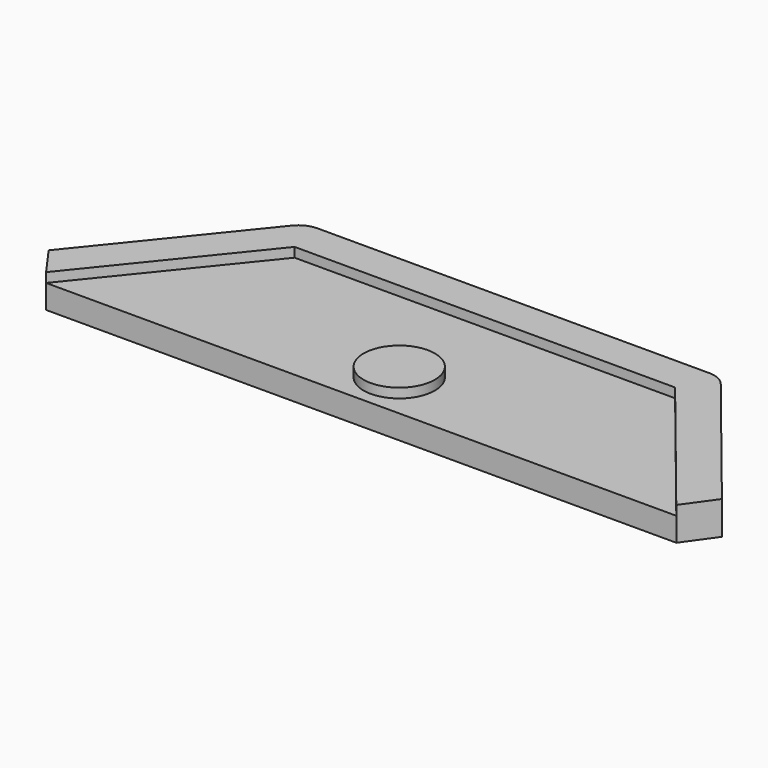
from build123d import *

# Parameters (mm, degrees)
F0_R     = 3
F1_DEPTH = 0.8
F3_DEPTH = 2


with BuildPart() as f1:
    # F0 (on Top) → F1 (new body)
    with BuildSketch(Plane.XY):
        with BuildLine():
            Line((-2, 10.345446), (0, 10.345446))
            Line((0, 10.345446), (2, 10.345446))
            Line((2, 10.345446), (5.554248, 10.345446))
            Line((5.554248, 10.345446), (16, 10.345446))
            Line((16, 10.345446), (26.5, -2.654554))
            Line((26.5, -2.654554), (28.31125, -0.122547))
            Line((28.31125, -0.122547), (18.033634, 12.60212))
            ThreePointArc((18.033634, 12.60212), (17.339915, 13.150071), (16.477752, 13.345446))
            Line((16.477752, 13.345446), (0, 13.345446))
            Line((0, 13.345446), (-16.477752, 13.345446))
            ThreePointArc((-16.477752, 13.345446), (-17.339915, 13.150071), (-18.033634, 12.60212))
            Line((-18.033634, 12.60212), (-28.31125, -0.122547))
            Line((-28.31125, -0.122547), (-26.5, -2.654554))
            Line((-26.5, -2.654554), (-16, 10.345446))
            Line((-16, 10.345446), (-5.554248, 10.345446))
            Line((-5.554248, 10.345446), (-2, 10.345446))
        make_face()
        with Locations((0, 1.345446)):
            Circle(F0_R)
    extrude(amount=F1_DEPTH)

    # F2 (on face) → F3 (join)
    with BuildSketch(Plane(origin=(0, 0, 0), x_dir=(1, 0, 0), z_dir=(0, 0, -1))):
        with BuildLine():
            Line((-26.5, 2.654554), (-28.31125, 0.122547))
            Line((-28.31125, 0.122547), (-18.033634, -12.60212))
            ThreePointArc((-18.033634, -12.60212), (-17.339915, -13.150071), (-16.477752, -13.345446))
            Line((-16.477752, -13.345446), (16.477752, -13.345446))
            ThreePointArc((16.477752, -13.345446), (17.339915, -13.150071), (18.033634, -12.60212))
            Line((18.033634, -12.60212), (28.31125, 0.122547))
            Line((28.31125, 0.122547), (26.5, 2.654554))
            Line((26.5, 2.654554), (-26.5, 2.654554))
        make_face()
    extrude(amount=F3_DEPTH)


solid = f1.part
